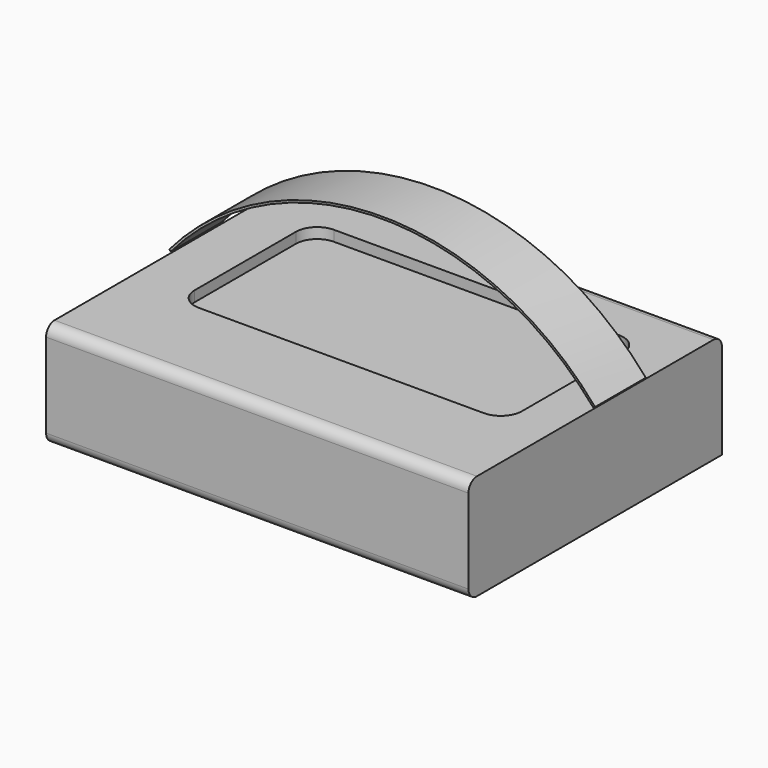
from build123d import *

# Parameters (mm, degrees)
F1_DEPTH = 200
F3_DEPTH = 5
F6_DEPTH = 15


with BuildPart() as f1:
    # F0 (on Right) → F1 (new body)
    with BuildSketch(Plane.YZ):
        with BuildLine():
            ThreePointArc((-23.8041541259, -13.0362552404), (-22.3396880318, -16.5717891464), (-18.8041541259, -18.0362552404))
            Line((-18.8041541259, -18.0362552404), (126.1958458741, -18.0362552404))
            Line((126.1958458741, -18.0362552404), (126.1958458741, 26.9637447596))
            ThreePointArc((126.1958458741, 26.9637447596), (124.7313797801, 30.4992786655), (121.1958458741, 31.9637447596))
            Line((121.1958458741, 31.9637447596), (-18.8041541259, 31.9637447596))
            ThreePointArc((-18.8041541259, 31.9637447596), (-22.3396880318, 30.4992786655), (-23.8041541259, 26.9637447596))
            Line((-23.8041541259, 26.9637447596), (-23.8041541259, -13.0362552404))
        make_face()
    extrude(amount=F1_DEPTH)

    # F2 (on face) → F3 (cut)
    with BuildSketch(Plane.XY.offset(31.9637447596)):
        with BuildLine():
            ThreePointArc((25.4539602995, 32.2771672672), (28.3828924876, 25.2060994554), (35.4539602995, 22.2771672672))
            Line((35.4539602995, 22.2771672672), (170.4539602995, 22.2771672672))
            ThreePointArc((170.4539602995, 22.2771672672), (177.5250281114, 25.2060994554), (180.4539602995, 32.2771672672))
            Line((180.4539602995, 32.2771672672), (180.4539602995, 92.2771672672))
            ThreePointArc((180.4539602995, 92.2771672672), (177.5250281114, 99.3482350791), (170.4539602995, 102.2771672672))
            Line((170.4539602995, 102.2771672672), (35.4539602995, 102.2771672672))
            ThreePointArc((35.4539602995, 102.2771672672), (28.3828924876, 99.3482350791), (25.4539602995, 92.2771672672))
            Line((25.4539602995, 92.2771672672), (25.4539602995, 32.2771672672))
        make_face()
    extrude(amount=-F3_DEPTH, mode=Mode.SUBTRACT)


with BuildPart() as f6:
    # F5 (on offset) → F6 (new body, symmetric)
    with BuildSketch(Plane.XZ.offset(-65)):
        with BuildLine():
            Line((-0.7614290583, 33.2530171188), (0, 32.6047688723))
            ThreePointArc((0, 32.6047688723), (100.0932679903, 78.8187204886), (200.1478447514, 32.5210608269))
            Line((200.1478447514, 32.5210608269), (200.9098157783, 33.1686719403))
            ThreePointArc((200.9098157783, 33.1686719403), (100.0936862213, 79.8187204011), (-0.7614290583, 33.2530171188))
        make_face()
    extrude(amount=F6_DEPTH, both=True)


solid = Compound([f1.part, f6.part])
